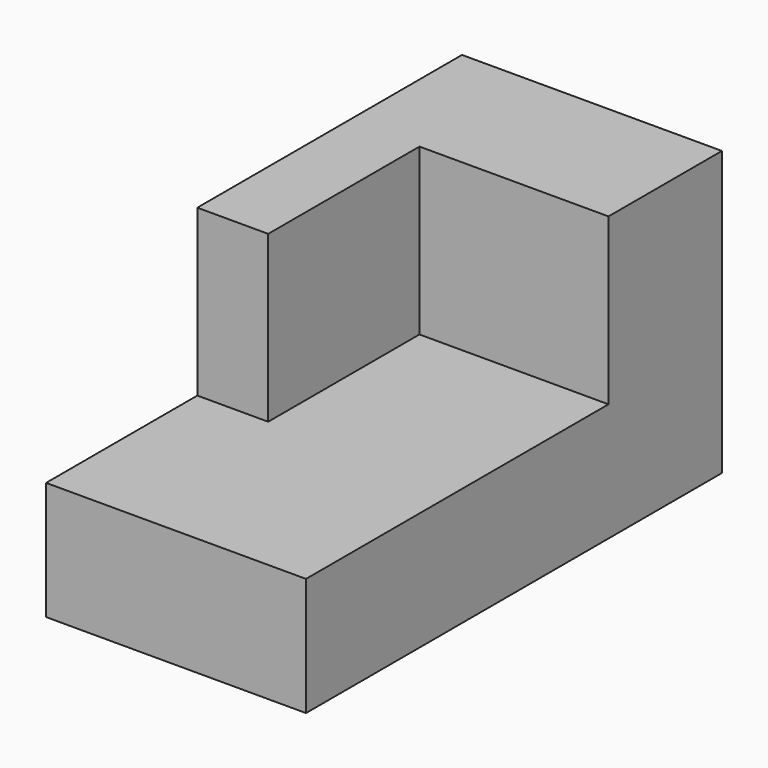
from build123d import *

# Parameters (mm, degrees)
F1_W     = 2794
F1_H     = 1524
F2_DEPTH = 1397
F3_W     = 381
F3_H     = 889
F4_DEPTH = 1016
F5_W     = 1016
F5_H     = 889
F6_DEPTH = 2.54
F7_W     = 1016
F7_H     = 889
F8_DEPTH = 2032


with BuildPart() as f2:
    # F1 (on face) → F2 (new body)
    with BuildSketch(Plane.YZ):
        with Locations((-1291.305676, 716.138394)):
            Rectangle(F1_W, F1_H)
    extrude(amount=F2_DEPTH)

    # F3 (on face) → F4 (cut)
    with BuildSketch(Plane.XZ.offset(2688.305676)):
        with Locations((190.5, 1033.638394)):
            Rectangle(F3_W, F3_H)
    extrude(amount=-F4_DEPTH, mode=Mode.SUBTRACT)

    # F5 (on face) → F6 (cut)
    with BuildSketch(Plane.XZ.offset(2688.305676)):
        with Locations((889, 1033.638394)):
            Rectangle(F5_W, F5_H)
    extrude(amount=F6_DEPTH, mode=Mode.SUBTRACT)

    # F7 (on face) → F8 (cut)
    with BuildSketch(Plane.XZ.offset(2688.305676)):
        with Locations((889, 1033.638394)):
            Rectangle(F7_W, F7_H)
    extrude(amount=-F8_DEPTH, mode=Mode.SUBTRACT)


solid = f2.part
